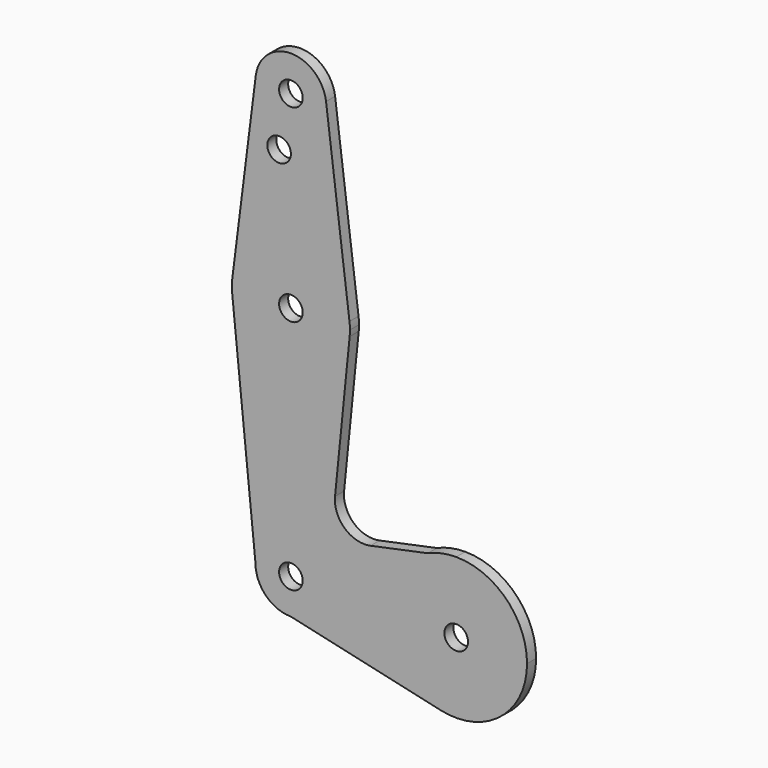
from build123d import *

# Parameters (mm, degrees)
F0_R     = 3.175
F1_DEPTH = 3.048


with BuildPart() as f1:
    # F0 (on Front) → F1 (new body)
    with BuildSketch(Plane.XZ):
        with BuildLine():
            ThreePointArc((-9.450293, 115.490625), (-0.596483, 104.793695), (9.525, 114.3))
            ThreePointArc((9.525, 114.3), (9.506305, 114.896483), (9.450293, 115.490625))
            ThreePointArc((9.450293, 115.490625), (0, 123.825), (-9.450293, 115.490625))
        make_face()
        with Locations((0, 114.3)):
            Circle(F0_R, mode=Mode.SUBTRACT)
        with BuildLine():
            ThreePointArc((9.450293, 115.490625), (9.506305, 114.896483), (9.525, 114.3))
            ThreePointArc((9.525, 114.3), (-0.596483, 104.793695), (-9.450293, 115.490625))
            Line((-9.450293, 115.490625), (-15.750488, 65.484375))
            ThreePointArc((-15.750488, 65.484375), (0, 79.375), (15.750488, 65.484375))
            Line((15.750488, 65.484375), (9.450293, 115.490625))
        make_face()
        with Locations((-3.175, 100.0252)):
            Circle(F0_R, mode=Mode.SUBTRACT)
        with BuildLine():
            ThreePointArc((15.875, 63.5), (15.843841, 64.494139), (15.750488, 65.484375))
            ThreePointArc((15.750488, 65.484375), (0, 79.375), (-15.750488, 65.484375))
            ThreePointArc((-15.750488, 65.484375), (-15.873819, 63.693615), (-15.794203, 61.90038))
            ThreePointArc((-15.794203, 61.90038), (0.006091, 47.625001), (15.795426, 61.9125))
            ThreePointArc((15.795426, 61.9125), (15.855094, 62.705253), (15.875, 63.5))
        make_face()
        with Locations((0, 63.5)):
            Circle(F0_R, mode=Mode.SUBTRACT)
        with BuildLine():
            ThreePointArc((15.795426, 61.9125), (0.006091, 47.625001), (-15.794203, 61.90038))
            Line((-15.794203, 61.90038), (-9.525, 0))
            ThreePointArc((-9.525, 0), (0, 9.525), (9.525, 0))
            ThreePointArc((9.525, 0), (6.735192, -6.735192), (0, -9.525))
            Line((0, -9.525), (40.268293, -18.585366))
            ThreePointArc((40.268293, -18.585366), (25.487676, -1.825589), (36.79937, 17.446213))
            Line((36.79937, 17.446213), (21.405481, 14.219222))
            ThreePointArc((21.405481, 14.219222), (14.459796, 16.087496), (11.864001, 22.795315))
            Line((11.864001, 22.795315), (15.795426, 61.9125))
        make_face()
        with BuildLine():
            ThreePointArc((9.525, 0), (0, 9.525), (-9.525, 0))
            ThreePointArc((-9.525, 0), (-6.735192, -6.735192), (0, -9.525))
            ThreePointArc((0, -9.525), (6.735192, -6.735192), (9.525, 0))
        make_face()
        Circle(F0_R, mode=Mode.SUBTRACT)
        with BuildLine():
            ThreePointArc((36.79937, 17.446213), (25.487676, -1.825589), (40.268293, -18.585366))
            ThreePointArc((40.268293, -18.585366), (56.350441, -14.875551), (63.5, 0))
            ThreePointArc((63.5, 0), (57.920384, 13.470384), (44.45, 19.05))
            Line((44.45, 19.05), (36.79937, 17.446213))
        make_face()
        with Locations((44.45, 0)):
            Circle(F0_R, mode=Mode.SUBTRACT)
        with BuildLine():
            ThreePointArc((44.45, 19.05), (40.541539, 18.644743), (36.79937, 17.446213))
            Line((36.79937, 17.446213), (44.45, 19.05))
        make_face()
    extrude(amount=F1_DEPTH)


solid = f1.part
